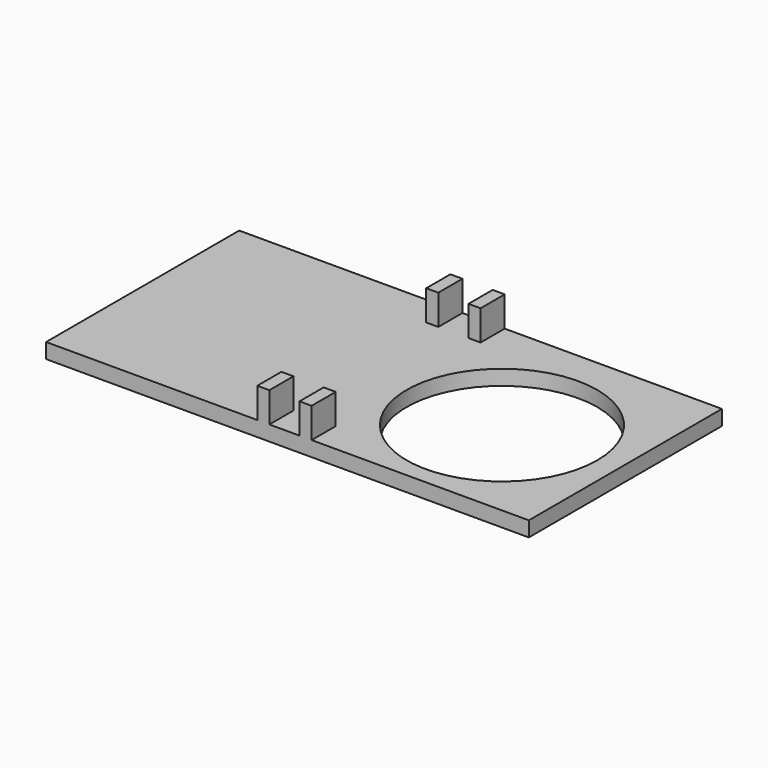
from build123d import *

# Parameters (mm, degrees)
F0_W     = 203.2
F0_H     = 101.6
F0_R     = 40.12907
F1_DEPTH = 6.35
F2_W     = 5.08
F2_H     = 12.7
F3_DEPTH = 12.7
F4_DEPTH = 12.7


with BuildPart() as f1:
    # F0 (on Top) → F1 (new body)
    with BuildSketch(Plane.XY):
        with Locations((23.723893, -32.59281)):
            Rectangle(F0_W, F0_H)
        with Locations((76.090291, -35.990499)):
            Circle(F0_R, mode=Mode.SUBTRACT)
    extrude(amount=F1_DEPTH)

    # F2 (on face) → F3 (join)
    with BuildSketch(Plane.XY.offset(6.35)):
        with Locations((13.563893, -77.04281)):
            Rectangle(F2_W, F2_H)
        with Locations((31.343893, -77.04281)):
            Rectangle(F2_W, F2_H)
    extrude(amount=F3_DEPTH)

    # F2 (on face) → F4 (join)
    with BuildSketch(Plane.XY.offset(6.35)):
        with Locations((31.343893, -77.04281)):
            Rectangle(F2_W, F2_H)
        with Locations((13.563893, -77.04281)):
            Rectangle(F2_W, F2_H)
        with Locations((31.343893, 11.85719)):
            Rectangle(F2_W, F2_H)
        with Locations((13.563893, 11.85719)):
            Rectangle(F2_W, F2_H)
    extrude(amount=F4_DEPTH)


solid = f1.part
